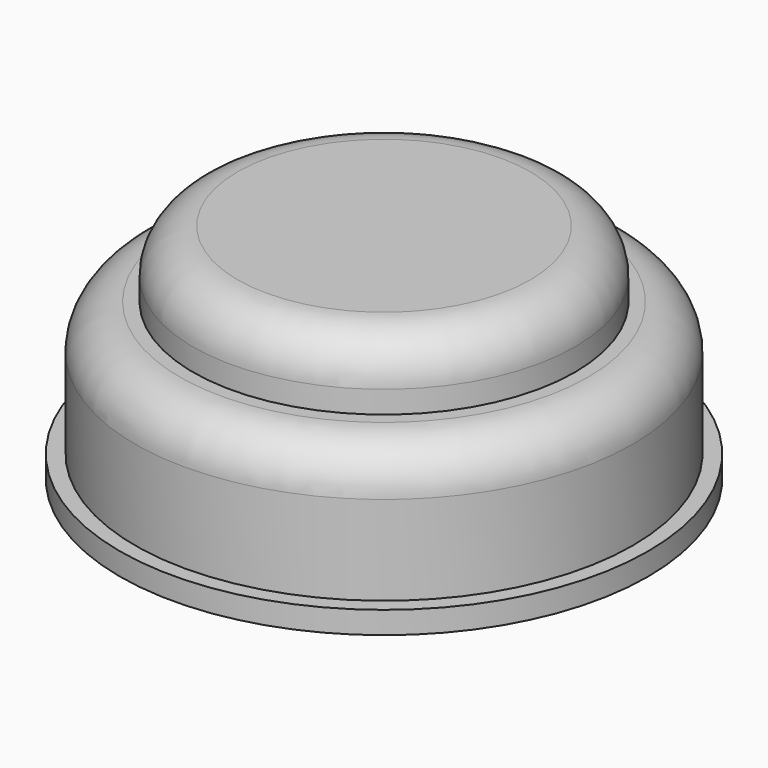
from build123d import *

# Parameters (mm, degrees)
F0_R     = 30.093252
F1_DEPTH = 2.54
F2_R     = 28.342661
F3_DEPTH = 15.24
F4_R     = 5.08
F5_R     = 21.753679
F6_DEPTH = 7.62
F7_R     = 5.08


with BuildPart() as f1:
    # F0 (on Top) → F1 (new body)
    with BuildSketch(Plane.XY):
        Circle(F0_R)
    extrude(amount=F1_DEPTH)

    # F2 (on face) → F3 (join)
    with BuildSketch(Plane.XY.offset(2.54)):
        Circle(F2_R)
    extrude(amount=F3_DEPTH)

    # F4
    f4_edges = [f1.edges().sort_by_distance(p)[0] for p in [
        (-28.342661, 0, 17.78),
    ]]
    fillet(f4_edges, radius=F4_R)

    # F5 (on face) → F6 (join)
    with BuildSketch(Plane.XY.offset(17.78)):
        Circle(F5_R)
    extrude(amount=F6_DEPTH)

    # F7
    f7_edges = [f1.edges().sort_by_distance(p)[0] for p in [
        (-21.753679, 0, 25.4),
    ]]
    fillet(f7_edges, radius=F7_R)


solid = f1.part
